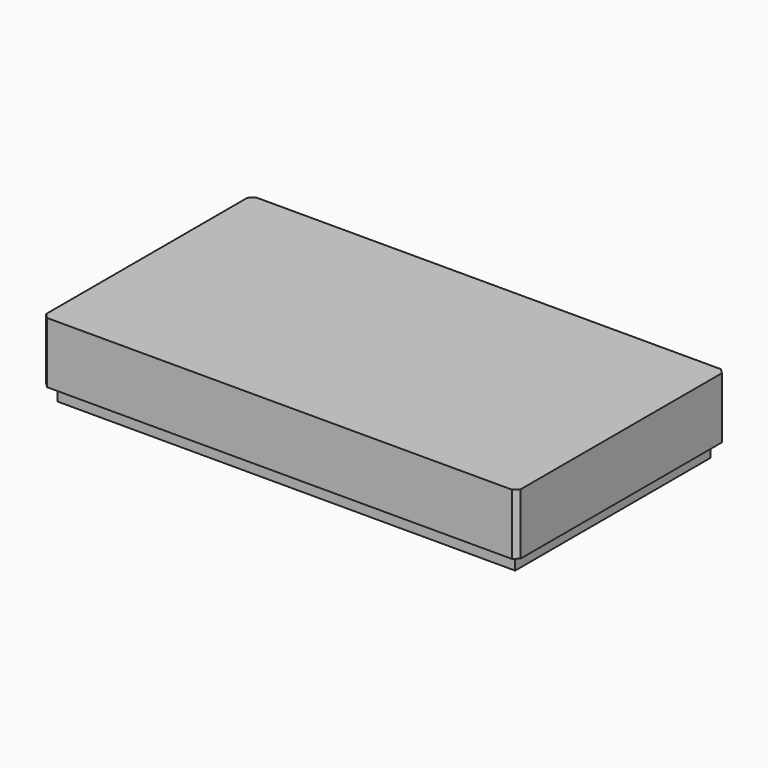
from build123d import *

# Parameters (mm, degrees)
SKETCH005_W      = 90.7
SKETCH005_H      = 1.5
EXTRUDE006_DEPTH = 12.5
SKETCH004_W      = 93.7
SKETCH004_H      = 1.5
EXTRUDE005_DEPTH = 14
CHAMFER001_SIZE  = 1.49
SKETCH003_W      = 1.5
SKETCH003_H      = 45.7
EXTRUDE004_DEPTH = 12.5
SKETCH002_W      = 1.5
SKETCH002_H      = 48.7
EXTRUDE003_DEPTH = 14
CHAMFER_SIZE     = 1.49
BINDER_W         = 51.4
BINDER_H         = 96.4
EXTRUDE002_DEPTH = 3.15
SKETCH_W         = 93.7
SKETCH_H         = 48.7
EXTRUDE001_DEPTH = 14
EXTRUDE_DEPTH    = 16


with BuildPart() as extrude006:
    # Sketch005 → Extrude006 (new body)
    with BuildSketch(Plane(origin=(0, 0, 0), x_dir=(1, 0, 0), z_dir=(0, 0, -1))):
        Rectangle(SKETCH005_W, SKETCH005_H)
    extrude(amount=-EXTRUDE006_DEPTH)


with BuildPart() as lengthrails:
    # Sketch004 → Extrude005 (new body)
    with BuildSketch(Plane(origin=(0, 0, 0), x_dir=(1, 0, 0), z_dir=(0, 0, -1))):
        Rectangle(SKETCH004_W, SKETCH004_H)
    extrude(amount=-EXTRUDE005_DEPTH)

    # Cut003: cut Extrude006
    add(extrude006.part, mode=Mode.SUBTRACT)

    # Chamfer001
    chamfer001_edges = [lengthrails.edges().sort_by_distance(p)[0] for p in [
        (-45.35, 0, 0),
        (45.35, 0, 0),
    ]]
    chamfer(chamfer001_edges, length=CHAMFER001_SIZE)


with BuildPart() as extrude004:
    # Sketch003 → Extrude004 (new body)
    with BuildSketch(Plane(origin=(0, 0, 0), x_dir=(1, 0, 0), z_dir=(0, 0, -1))):
        with Locations((-35.1375, 0)):
            Rectangle(SKETCH003_W, SKETCH003_H)
        with Locations((-11.7125, 0)):
            Rectangle(SKETCH003_W, SKETCH003_H)
    extrude(amount=-EXTRUDE004_DEPTH)


with BuildPart() as railsleft001:
    # Sketch002 (on Face20 of Cut001) → Extrude003 (new body)
    with BuildSketch(Plane(origin=(0, 0, 14), x_dir=(1, 0, 0), z_dir=(0, 0, -1))):
        with Locations((-35.1375, 0)):
            Rectangle(SKETCH002_W, SKETCH002_H)
        with Locations((-11.7125, 0)):
            Rectangle(SKETCH002_W, SKETCH002_H)
    extrude(amount=EXTRUDE003_DEPTH)

    # Cut002: cut Extrude004
    add(extrude004.part, mode=Mode.SUBTRACT)

    # Chamfer
    chamfer_edges = [railsleft001.edges().sort_by_distance(p)[0] for p in [
        (-35.1375, -22.85, 0),
        (-35.1375, 22.85, 0),
        (-11.7125, -22.85, 0),
        (-11.7125, 22.85, 0),
    ]]
    chamfer(chamfer_edges, length=CHAMFER_SIZE)


with BuildPart() as railsright:
    # Part__Mirroring: instance of RailsLeft001
    add(railsleft001.part.mirror(Plane(origin=(0, 0, 0), x_dir=(0, -1, 0), z_dir=(1, 0, 0))))


with BuildPart() as rails:
    # Fusion base: copy of RailsLeft001
    add(railsleft001.part)

    # Fusion: union RailsRight
    add(railsright.part)

    # Fusion001: union LengthRails
    add(lengthrails.part)


with BuildPart() as cutoutedging:
    # Binder → Extrude002 (new body)
    with BuildSketch(Plane(origin=(0, 0, 0), x_dir=(0, -1, 0), z_dir=(0, 0, -1))):
        Polygon((26.624264, 50.3), (-26.624264, 50.3), (-27.8, 49.124264), (-27.8, -49.124264), (-26.624264, -50.3), (26.624264, -50.3), (27.8, -49.124264), (27.8, 49.124264), align=None)
        Rectangle(BINDER_W, BINDER_H, mode=Mode.SUBTRACT)
    extrude(amount=-EXTRUDE002_DEPTH)


with BuildPart() as extrude001:
    # Sketch → Extrude001 (new body)
    with BuildSketch(Plane(origin=(0, 0, 0), x_dir=(1, 0, 0), z_dir=(0, 0, -1))):
        Rectangle(SKETCH_W, SKETCH_H)
    extrude(amount=-EXTRUDE001_DEPTH)


with BuildPart() as fusion002:
    # Face → Extrude (new body)
    with BuildSketch(Plane(origin=(0, 0, 0), x_dir=(0, -1, 0), z_dir=(0, 0, -1))):
        Polygon((-26.5, -50), (26.5, -50), (27.5, -49), (27.5, 49), (26.5, 50), (-26.5, 50), (-27.5, 49), (-27.5, -49), align=None)
    extrude(amount=-EXTRUDE_DEPTH)

    # Cut: cut Extrude001
    add(extrude001.part, mode=Mode.SUBTRACT)

    # Cut001: cut CutoutEdging
    add(cutoutedging.part, mode=Mode.SUBTRACT)

    # Fusion002: union Rails
    add(rails.part)


solid = fusion002.part
